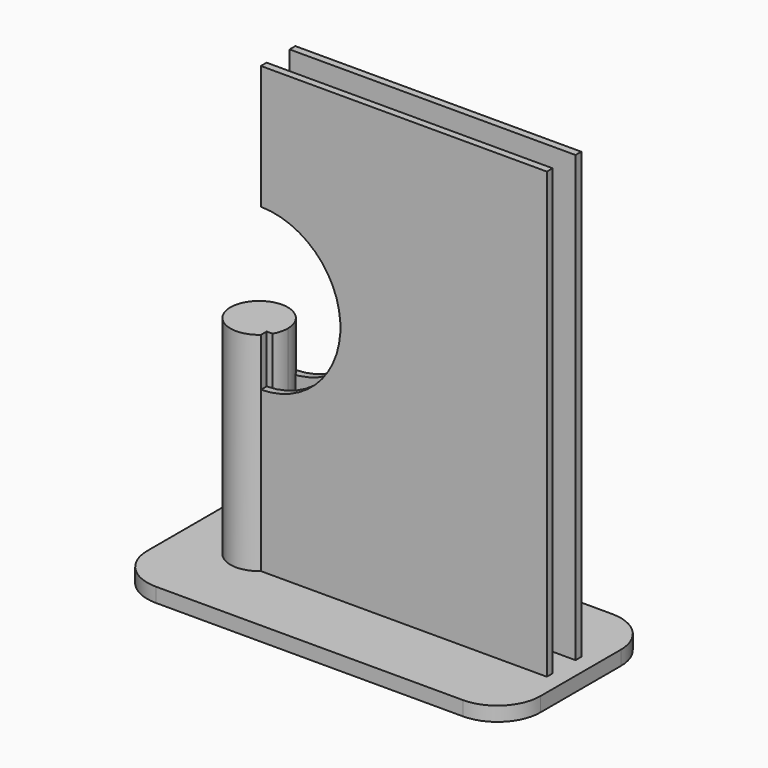
from build123d import *

# Parameters (mm, degrees)
F2_DEPTH = 152.4
F3_W     = 1012.558711063
F3_H     = 101.6
F4_DEPTH = 1574.8
F6_DEPTH = 736.6
F8_DEPTH = 50.8
F9_DEPTH = 50.8


with BuildPart() as f2:
    # F1 (on Front) → F2 (new body)
    with BuildSketch(Plane.XZ):
        with BuildLine():
            ThreePointArc((32.8054452588, 1135.8617189374), (314.3900531211, 850.6908187111), (32.8054452588, 565.5199184849))
            Line((32.8054452588, 565.5199184849), (32.8054452588, 0))
            Line((32.8054452588, 0), (1045.3641563217, 0))
            Line((1045.3641563217, 0), (1045.3641563217, 1574.8))
            Line((1045.3641563217, 1574.8), (32.8054452588, 1574.8))
            Line((32.8054452588, 1574.8), (32.8054452588, 1135.8617189374))
        make_face()
    extrude(amount=F2_DEPTH)

    # F3 (on face) → F4 (cut)
    with BuildSketch(Plane.XY.offset(1574.8)):
        with Locations((539.0848007902, -76.2)):
            Rectangle(F3_W, F3_H)
    extrude(amount=-F4_DEPTH, mode=Mode.SUBTRACT)


with BuildPart() as f6:
    # F5 (on face) → F6 (new body)
    with BuildSketch(Plane(origin=(0, 0, 0), x_dir=(1, 0, 0), z_dir=(0, 0, -1))):
        with BuildLine():
            Line((32.8054452588, 127), (32.8054452588, 152.4))
            ThreePointArc((32.8054452588, 152.4), (-135.9966380423, 76.2), (32.8054452588, 0))
            ThreePointArc((32.8054452588, 0), (58.2054452588, 34.397916699), (67.2033619577, 76.2))
            ThreePointArc((67.2033619577, 76.2), (63.7414259087, 102.4960149824), (53.5915429822, 127))
            Line((53.5915429822, 127), (32.8054452588, 127))
        make_face()
    extrude(amount=-F6_DEPTH)


with BuildPart() as f8:
    # F7 (on face) → F8 (new body)
    with BuildSketch(Plane(origin=(0, 0, 0), x_dir=(1, 0, 0), z_dir=(0, 0, -1))):
        with BuildLine():
            Line((951.5788722992, 406.4), (-135.9966380423, 406.4))
            ThreePointArc((-135.9966380423, 406.4), (-243.7597114951, 361.7630734528), (-288.3966380423, 254))
            Line((-288.3966380423, 254), (-288.3966380423, -101.6))
            ThreePointArc((-288.3966380423, -101.6), (-243.7597114951, -209.3630734528), (-135.9966380423, -254))
            Line((-135.9966380423, -254), (951.5788722992, -254))
            ThreePointArc((951.5788722992, -254), (1059.341945752, -209.3630734528), (1103.9788722992, -101.6))
            Line((1103.9788722992, -101.6), (1103.9788722992, 254))
            ThreePointArc((1103.9788722992, 254), (1059.341945752, 361.7630734528), (951.5788722992, 406.4))
        make_face()
        with BuildLine():
            Line((32.8054452588, 127), (53.5915429822, 127))
            ThreePointArc((53.5915429822, 127), (65.8692810696, 59.7894709213), (32.8054452588, 0))
            ThreePointArc((32.8054452588, 0), (-135.9966380423, 76.2), (32.8054452588, 152.4))
            Line((32.8054452588, 152.4), (32.8054452588, 127))
        make_face(mode=Mode.SUBTRACT)
    extrude(amount=F8_DEPTH)


with BuildPart() as f9:
    # F9 (new): a face of the model
    f9_faces = [f6.part.faces().sort_by_distance(p)[0] for p in [
        (-35.0765413832, -75.6550871549, 0),
    ]]
    extrude(f9_faces, amount=F9_DEPTH)


solid = Compound([f2.part, f6.part, f8.part, f9.part])
